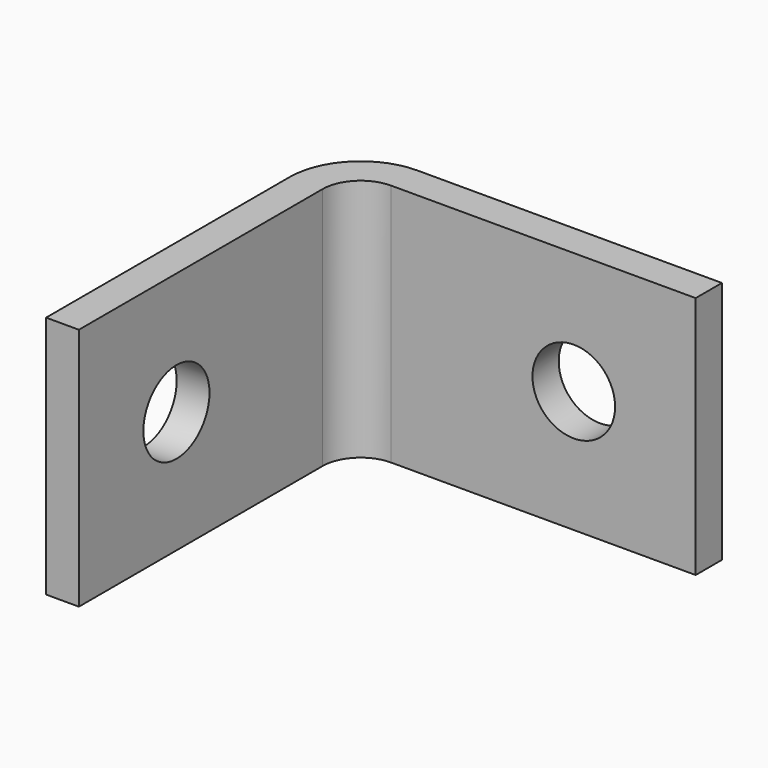
from build123d import *

# Parameters (mm, degrees)
F1_DEPTH = 12.7
F2_R     = 1.98374
F3_R     = 3.69316
F4_R     = 2.15265
F5_DEPTH = 1.70942
F6_R     = 2.15265
F7_DEPTH = 1.70942


with BuildPart() as f1:
    # F0 (on Top) → F1 (new body)
    with BuildSketch(Plane.XY):
        Polygon((19.558, 0), (0, 0), (0, -19.558), (1.70942, -19.558), (1.70942, -1.70942), (19.558, -1.70942), align=None)
    extrude(amount=F1_DEPTH)

    # F2
    f2_edges = [f1.edges().sort_by_distance(p)[0] for p in [
        (1.70942, -1.70942, 6.35),
    ]]
    fillet(f2_edges, radius=F2_R)

    # F3
    f3_edges = [f1.edges().sort_by_distance(p)[0] for p in [
        (0, 0, 6.35),
    ]]
    fillet(f3_edges, radius=F3_R)

    # F4 (on face) → F5 (cut, through all)
    with BuildSketch(Plane.XZ.offset(1.70942)):
        with Locations((13.208, 6.35)):
            Circle(F4_R)
    extrude(amount=-F5_DEPTH, mode=Mode.SUBTRACT)

    # F6 (on face) → F7 (cut, through all)
    with BuildSketch(Plane.YZ.offset(1.70942)):
        with Locations((-13.208, 6.35)):
            Circle(F6_R)
    extrude(amount=-F7_DEPTH, mode=Mode.SUBTRACT)


solid = f1.part
